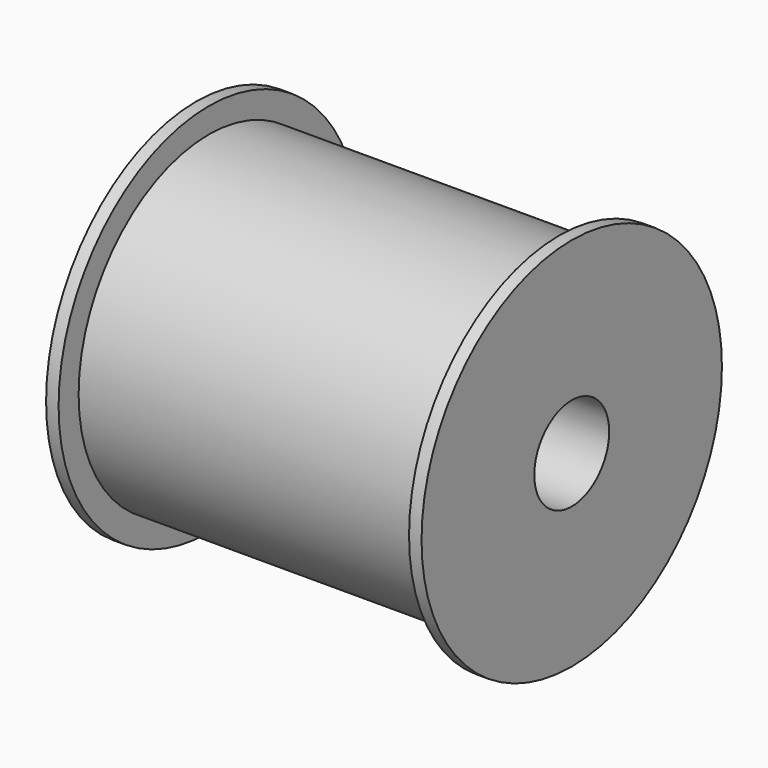
from build123d import *

# Parameters (mm, degrees)
F2_R     = 4.75
F3_DEPTH = 38.1


with BuildPart() as f1:
    # F0 (on Top) → F1 (revolve)
    with BuildSketch(Plane.XY):
        Polygon((-160.183088, 29.091926), (-122.083088, 29.091926), (-122.083088, 48.141926), (-123.353088, 48.141926), (-123.353088, 45.601926), (-158.913088, 45.601926), (-158.913088, 48.141926), (-160.183088, 48.141926), align=None)
    revolve(axis=Axis((-141.133088, 29.091926, 0), (-1, 0, 0)))

    # F2 (on face) → F3 (cut)
    with BuildSketch(Plane.YZ.offset(-122.083088)):
        with Locations((29.091926, 0)):
            Circle(F2_R)
    extrude(amount=-F3_DEPTH, mode=Mode.SUBTRACT)


solid = f1.part
